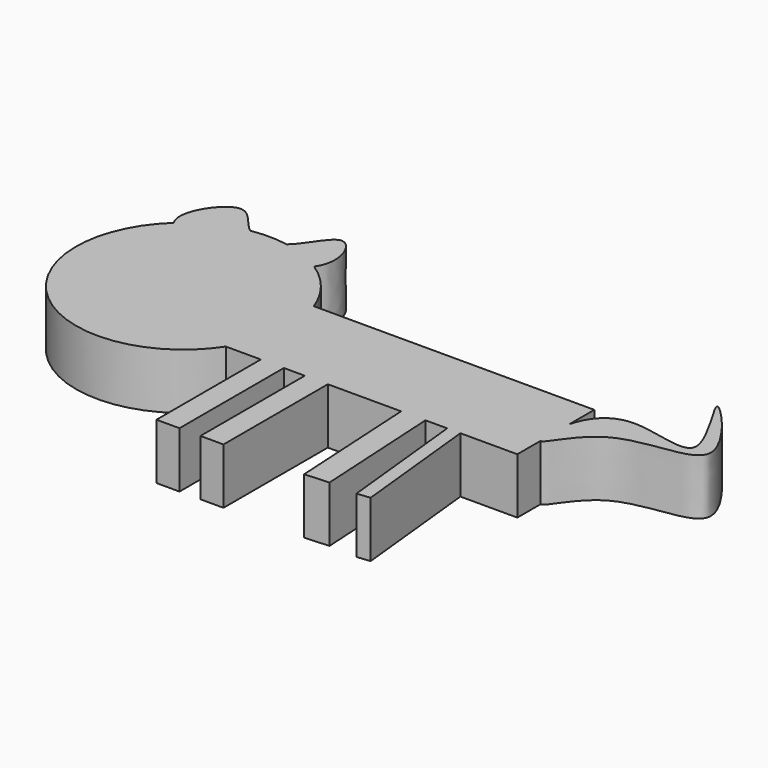
from build123d import *

# Parameters (mm, degrees)
F1_DEPTH = 14.986


with BuildPart() as f1:
    # F0 (on Top) → F1 (new body)
    with BuildSketch(Plane.XY):
        with BuildLine():
            Line((47.8091410523, 33.1629750625), (-27.5130073652, 33.1629750625))
            ThreePointArc((-27.5130073652, 33.1629750625), (-31.9959485659, 41.1273675203), (-38.7462297885, 47.2886995555))
            add(Edge.make_bspline(
                [(-38.7462297885, 47.2886995555), (-44.6532678976, 39.0271477079), (-69.4513015746, 37.3106989119), (-74.1189987322, 44.3701618378)],
                knots=[0.7440815993, 0.7440815993, 0.7440815993, 0.7440815993, 1, 1, 1, 1], degree=3))
            ThreePointArc((-74.1189987322, 44.3701618378), (-73.2252936098, 1.1999163017), (-30.4821332243, 7.3229097494))
            Line((-30.4821332243, 7.3229097494), (-21.092267707, 7.3229097494))
            Line((-21.092267707, 7.3229097494), (-21.092267707, -27.7011785656))
            Line((-21.092267707, -27.7011785656), (-14.9052022025, -27.7011785656))
            Line((-14.9052022025, -27.7011785656), (-14.9052022025, 7.3229097494))
            Line((-14.9052022025, 7.3229097494), (-9.2805977911, 7.3229097494))
            Line((-9.2805977911, 7.3229097494), (-9.2805977911, -27.7011785656))
            Line((-9.2805977911, -27.7011785656), (-3.0935327522, -27.7011785656))
            Line((-3.0935327522, -27.7011785656), (-3.0935327522, 7.3229097494))
            Line((-3.0935327522, 7.3229097494), (16.5925845504, 7.3229097494))
            Line((16.5925845504, 7.3229097494), (18.5611955822, -27.7011785656))
            Line((18.5611955822, -27.7011785656), (25.0721487249, -27.335215173))
            Line((25.0721487249, -27.335215173), (23.124107524, 7.3229097494))
            Line((23.124107524, 7.3229097494), (28.9667118341, 7.3229097494))
            Line((28.9667118341, 7.3229097494), (32.6227098703, -27.7011785656))
            Line((32.6227098703, -27.7011785656), (36.1286018476, -27.335215173))
            Line((36.1286018476, -27.335215173), (32.5108049897, 7.3229097494))
            Line((32.5108049897, 7.3229097494), (47.8091410523, 7.3229097494))
            Line((47.8091410523, 7.3229097494), (47.8091410523, 15.0458179414))
            add(Edge.make_bspline(
                [(47.8091410523, 15.0458179414), (46.7233474539, 15.266244017), (46.6382768597, 20.5923763364), (47.8091410523, 24.8888749629)],
                knots=[0.8896256075, 0.8896256075, 0.8896256075, 0.8896256075, 1, 1, 1, 1], degree=3))
            Line((47.8091410523, 24.8888749629), (47.8091410523, 33.1629750625))
        make_face()
        with BuildLine():
            add(Edge.make_bspline(
                [(-38.7462297885, 47.2886995555), (-44.6532678976, 39.0271477079), (-69.4513015746, 37.3106989119), (-74.1189987322, 44.3701618378)],
                knots=[0.7440815993, 0.7440815993, 0.7440815993, 0.7440815993, 1, 1, 1, 1], degree=3))
            add(Edge.make_bspline(
                [(-49.5051317345, 51.5673620376), (-46.228325712, 54.3262008587), (-41.7051221465, 66.7337224286), (-35.1691881356, 52.2915308442), (-38.7462297885, 47.2886995555)],
                knots=[0.4417479076, 0.4417479076, 0.4417479076, 0.4417479076, 0.5891087073, 0.7440815993, 0.7440815993, 0.7440815993, 0.7440815993], degree=3))
            add(Edge.make_bspline(
                [(-59.3788272716, 51.6097394616), (-56.4077375644, 49.2725881997), (-52.5066500278, 49.0402960065), (-49.5051317345, 51.5673620376)],
                knots=[0.306767035, 0.306767035, 0.306767035, 0.306767035, 0.4417479076, 0.4417479076, 0.4417479076, 0.4417479076], degree=3))
            add(Edge.make_bspline(
                [(-74.1189987322, 44.3701618378), (-77.1635729757, 48.9748005431), (-67.0195184238, 64.2984810546), (-62.4568828899, 54.0310334249), (-59.3788272716, 51.6097394616)],
                knots=[0, 0, 0, 0, 0.1669265475, 0.306767035, 0.306767035, 0.306767035, 0.306767035], degree=3))
        make_face()
        with BuildLine():
            add(Edge.make_bspline(
                [(-59.3788272716, 51.6097394616), (-56.4077375644, 49.2725881997), (-52.5066500278, 49.0402960065), (-49.5051317345, 51.5673620376)],
                knots=[0.306767035, 0.306767035, 0.306767035, 0.306767035, 0.4417479076, 0.4417479076, 0.4417479076, 0.4417479076], degree=3))
            ThreePointArc((-49.5051317345, 51.5673620376), (-54.4401520673, 52.0143327606), (-59.3788272716, 51.6097394616))
        make_face()
        with BuildLine():
            add(Edge.make_bspline(
                [(47.8091410523, 24.8888749629), (49.1732700848, 29.8945609784), (55.6919771972, 37.5585894626), (84.3805023422, 24.8258950643), (56.4771234829, 63.3184107042), (91.2904486493, 25.4828743203), (55.4250398537, 31.1747745323), (49.1367545108, 14.7763002127), (47.8091410523, 15.0458179414)],
                knots=[0, 0, 0, 0, 0.1285929779, 0.2731470999, 0.4270272653, 0.5890849357, 0.7546694527, 0.8896256075, 0.8896256075, 0.8896256075, 0.8896256075], degree=3))
            add(Edge.make_bspline(
                [(47.8091410523, 15.0458179414), (46.7233474539, 15.266244017), (46.6382768597, 20.5923763364), (47.8091410523, 24.8888749629)],
                knots=[0.8896256075, 0.8896256075, 0.8896256075, 0.8896256075, 1, 1, 1, 1], degree=3))
        make_face()
    extrude(amount=F1_DEPTH)


solid = f1.part
